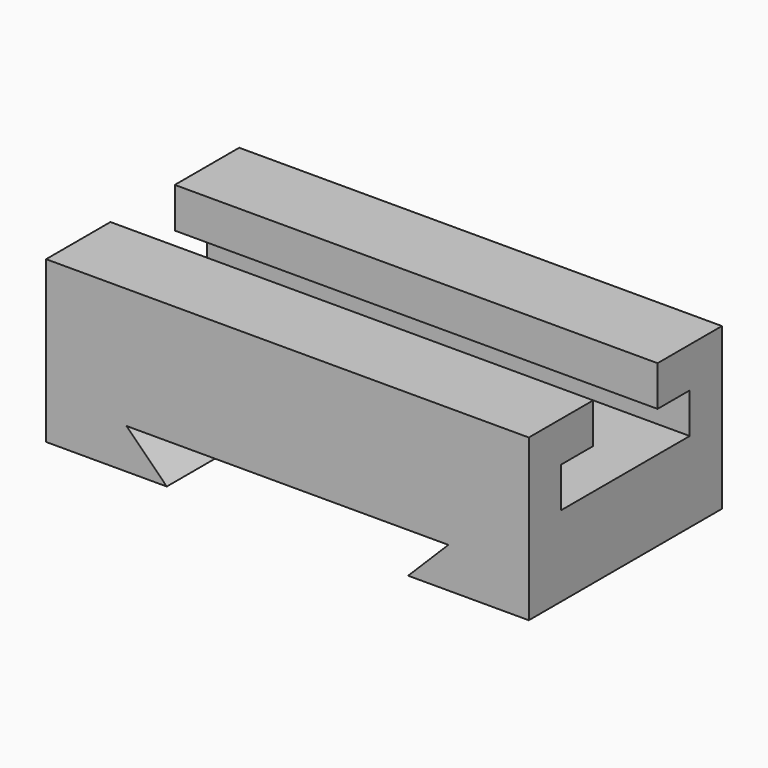
from build123d import *

# Parameters (mm, degrees)
F0_W     = 152.4
F0_H     = 50.8
F1_DEPTH = 76.2
F3_DEPTH = 152.401
F5_DEPTH = 76.201


with BuildPart() as f1:
    # F0 (on Front) → F1 (new body)
    with BuildSketch(Plane.XZ):
        Rectangle(F0_W, F0_H)
    extrude(amount=F1_DEPTH)

    # F2 (on face) → F3 (cut, through all)
    with BuildSketch(Plane.YZ.offset(76.2)):
        Polygon((-25.4, 12.693209), (-25.4, 25.4), (-50.8, 25.4), (-50.8, 12.693209), (-63.5, 12.693209), (-63.5, 0), (-12.7, 0), (-12.7, 12.693209), align=None)
    extrude(amount=-F3_DEPTH, mode=Mode.SUBTRACT)

    # F4 (on face) → F5 (cut, through all)
    with BuildSketch(Plane.XZ.offset(76.2)):
        Polygon((50.8, -12.7), (0, -12.7), (-50.8, -12.7), (-38.1, -25.4), (38.1, -25.4), align=None)
    extrude(amount=-F5_DEPTH, mode=Mode.SUBTRACT)


solid = f1.part
